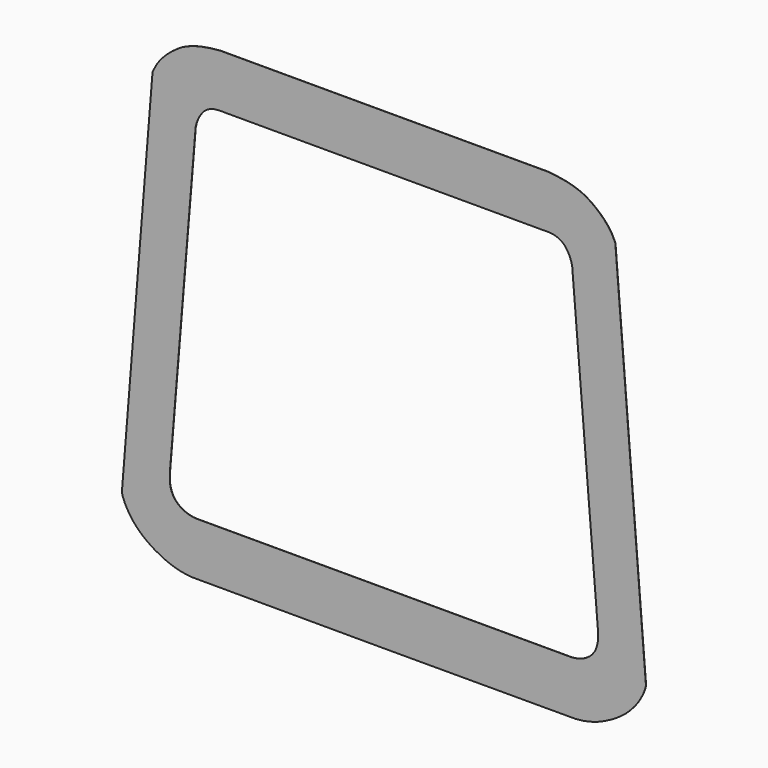
from build123d import *

# Parameters (mm, degrees)
F1_DEPTH = 4


with BuildPart() as f1:
    # F0 (on Front) → F1 (new body)
    with BuildSketch(Plane.XZ):
        Polygon((1097.0768, 3384.8167), (0, 3384.8167), (-1097.0768, 3384.8167), (-2926.5372, 3384.8167), (-3003.4738, 3386.5693), (-3087.2684, 3381.5401), (-3136.265, 3373.9455), (-3212.1094, 3352.1015), (-3270.9612, 3319.6149), (-3307.461, 3290.3541), (-3340.2524, 3256.9531), (-3397.25, 3177.3749), (-3428.2888, 3116.1101), (-3452.7744, 3051.8227), (-3473.6786, 2969.1203), (-3479.2666, 2893.0727), (-3946.7028, -2766.3267), (-3949.192, -2835.3893), (-3949.9794, -2911.7163), (-3944.9248, -2970.6697), (-3933.7996, -3028.9373), (-3914.14, -3091.9293), (-3885.6412, -3151.2637), (-3844.671, -3208.3629), (-3794.4298, -3257.7151), (-3743.2488, -3294.6721), (-3687.8006, -3324.8473), (-3631.1332, -3348.0883), (-3572.3576, -3365.2841), (-3517.0872, -3375.6727), (-3461.1564, -3380.8543), (0, -3380.8543), (3461.1564, -3380.8543), (3517.0872, -3375.6727), (3572.3576, -3365.2841), (3631.1332, -3348.0883), (3687.8006, -3324.8473), (3743.2488, -3294.6721), (3794.4298, -3257.7151), (3844.671, -3208.3629), (3885.6412, -3151.2637), (3914.14, -3091.9293), (3933.7996, -3028.9373), (3944.9248, -2970.6697), (3949.9794, -2911.7163), (3949.192, -2835.3893), (3946.7028, -2766.3267), (3479.2666, 2893.0727), (3473.6786, 2969.1203), (3452.7744, 3051.8227), (3428.2888, 3116.1101), (3397.25, 3177.3749), (3340.2524, 3256.9531), (3307.461, 3290.3541), (3270.9612, 3319.6149), (3212.1094, 3352.1015), (3136.265, 3373.9455), (3087.2684, 3381.5401), (3003.4738, 3386.5693), (2926.5372, 3384.8167), align=None)
        Polygon((1600.5556, 4362.1833), (0, 4362.1833), (-1600.5556, 4362.1833), (-3020.9744, 4362.1833), (-3187.573, 4344.4287), (-3362.198, 4315.0155), (-3467.2778, 4288.9297), (-3570.4526, 4255.7827), (-3649.4212, 4224.5661), (-3725.5196, 4187.2535), (-3828.8976, 4121.6199), (-3909.8982, 4060.8377), (-3987.1396, 3995.3057), (-4061.0282, 3923.8809), (-4128.6176, 3846.6395), (-4172.4834, 3786.6955), (-4211.7264, 3723.5765), (-4268.2668, 3607.7017), (-4833.6962, -3395.7133), (-4819.6754, -3452.7871), (-4775.6826, -3564.8011), (-4702.429, -3694.8491), (-4633.1124, -3791.1151), (-4555.1344, -3880.6247), (-4462.018, -3969.3215), (-4361.2054, -4049.1537), (-4228.1602, -4135.6153), (-4087.9268, -4210.1389), (-3998.1124, -4250.8551), (-3906.0882, -4286.0595), (-3786.2764, -4320.9083), (-3663.7468, -4344.7081), (-3537.7882, -4357.7637), (0, -4362.1833), (3537.7882, -4357.7637), (3663.7468, -4344.7081), (3786.2764, -4320.9083), (3906.0882, -4286.0595), (3998.1124, -4250.8551), (4087.9268, -4210.1389), (4228.1602, -4135.6153), (4361.2054, -4049.1537), (4462.018, -3969.3215), (4555.1344, -3880.6247), (4633.1124, -3791.1151), (4702.429, -3694.8491), (4775.6826, -3564.8011), (4819.6754, -3452.7871), (4833.6962, -3395.7133), (4268.2668, 3607.7017), (4211.7264, 3723.5765), (4172.4834, 3786.6955), (4128.6176, 3846.6395), (4061.0282, 3923.8809), (3987.165, 3995.3057), (3909.9236, 4060.8377), (3828.8976, 4121.6199), (3725.545, 4187.2535), (3649.4212, 4224.5661), (3570.4526, 4255.7827), (3467.2778, 4288.9297), (3362.198, 4315.0155), (3187.573, 4344.4287), (3020.9744, 4362.1833), align=None)
        Polygon((-1097.0768, 3384.8167), (0, 3384.8167), (1097.0768, 3384.8167), (2926.5372, 3384.8167), (3003.4738, 3386.5693), (3087.2684, 3381.5401), (3136.265, 3373.9455), (3212.1094, 3352.1015), (3270.9612, 3319.6149), (3307.461, 3290.3541), (3340.2524, 3256.9531), (3397.25, 3177.3749), (3428.2888, 3116.1101), (3452.7744, 3051.8227), (3473.6786, 2969.1203), (3479.2666, 2893.0727), (3946.7028, -2766.3267), (3949.192, -2835.3893), (3949.9794, -2911.7163), (3944.9248, -2970.6697), (3933.7996, -3028.9373), (3914.14, -3091.9293), (3885.6412, -3151.2637), (3844.671, -3208.3629), (3794.4298, -3257.7151), (3743.2488, -3294.6721), (3687.8006, -3324.8473), (3631.1332, -3348.0883), (3572.3576, -3365.2841), (3517.0872, -3375.6727), (3461.1564, -3380.8543), (0, -3380.8543), (-3461.1564, -3380.8543), (-3517.0872, -3375.6727), (-3572.3576, -3365.2841), (-3631.1332, -3348.0883), (-3687.8006, -3324.8473), (-3743.2488, -3294.6721), (-3794.4298, -3257.7151), (-3844.671, -3208.3629), (-3885.6412, -3151.2637), (-3914.14, -3091.9293), (-3933.7996, -3028.9373), (-3944.9248, -2970.6697), (-3949.9794, -2911.7163), (-3949.192, -2835.3893), (-3946.7028, -2766.3267), (-3479.2666, 2893.0727), (-3473.6786, 2969.1203), (-3452.7744, 3051.8227), (-3428.2888, 3116.1101), (-3397.25, 3177.3749), (-3340.2524, 3256.9531), (-3307.461, 3290.3541), (-3270.9612, 3319.6149), (-3212.1094, 3352.1015), (-3136.265, 3373.9455), (-3087.2684, 3381.5401), (-3003.4738, 3386.5693), (-2926.5372, 3384.8167), align=None, mode=Mode.SUBTRACT)
    extrude(amount=F1_DEPTH)


solid = f1.part
